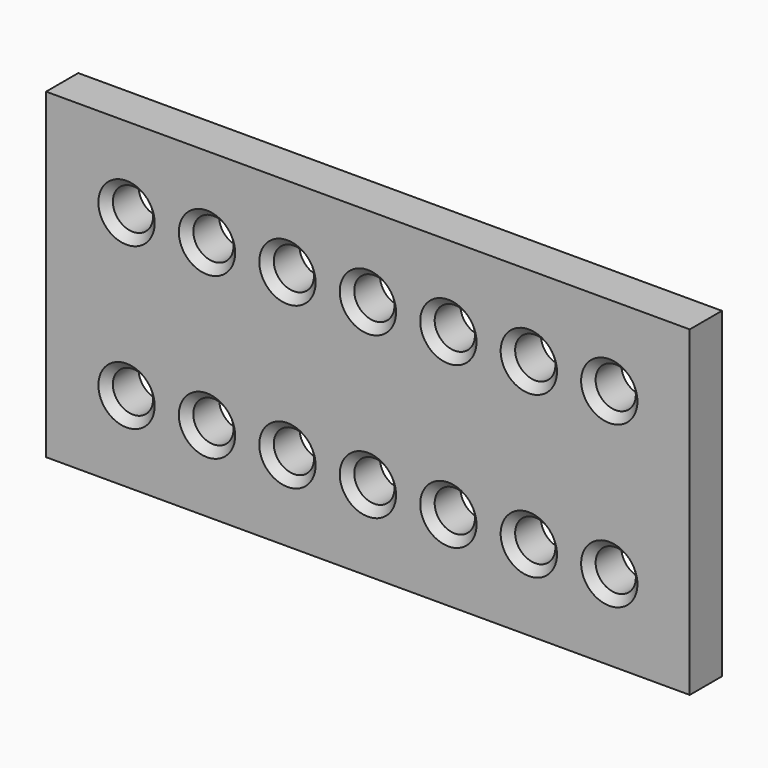
from build123d import *

# Parameters (mm, degrees)
F0_W     = 101.6
F0_H     = 50.8
F0_R     = 3.175
F1_DEPTH = 6.35
F2_SIZE  = 1.27


with BuildPart() as f1:
    # F0 (on Front) → F1 (new body)
    with BuildSketch(Plane.XZ):
        Rectangle(F0_W, F0_H)
        with Locations((-38.1, -12.7)):
            Circle(F0_R, mode=Mode.SUBTRACT)
        with Locations((-25.4, -12.7)):
            Circle(F0_R, mode=Mode.SUBTRACT)
        with Locations((-12.7, -12.7)):
            Circle(F0_R, mode=Mode.SUBTRACT)
        with Locations((0, -12.7)):
            Circle(F0_R, mode=Mode.SUBTRACT)
        with Locations((12.7, -12.7)):
            Circle(F0_R, mode=Mode.SUBTRACT)
        with Locations((25.4, -12.7)):
            Circle(F0_R, mode=Mode.SUBTRACT)
        with Locations((38.1, -12.7)):
            Circle(F0_R, mode=Mode.SUBTRACT)
        with Locations((-38.1, 12.7)):
            Circle(F0_R, mode=Mode.SUBTRACT)
        with Locations((-25.4, 12.7)):
            Circle(F0_R, mode=Mode.SUBTRACT)
        with Locations((-12.7, 12.7)):
            Circle(F0_R, mode=Mode.SUBTRACT)
        with Locations((0, 12.7)):
            Circle(F0_R, mode=Mode.SUBTRACT)
        with Locations((12.7, 12.7)):
            Circle(F0_R, mode=Mode.SUBTRACT)
        with Locations((25.4, 12.7)):
            Circle(F0_R, mode=Mode.SUBTRACT)
        with Locations((38.1, 12.7)):
            Circle(F0_R, mode=Mode.SUBTRACT)
    extrude(amount=F1_DEPTH)

    # F2
    f2_edges = [f1.edges().sort_by_distance(p)[0] for p in [
        (-41.275, -6.35, 12.7),
        (-28.575, -6.35, 12.7),
        (-15.875, -6.35, 12.7),
        (-3.175, -6.35, 12.7),
        (9.525, -6.35, 12.7),
        (22.225, -6.35, 12.7),
        (34.925, -6.35, 12.7),
        (34.925, -6.35, -12.7),
        (22.225, -6.35, -12.7),
        (9.525, -6.35, -12.7),
        (-3.175, -6.35, -12.7),
        (-15.875, -6.35, -12.7),
        (-41.275, -6.35, -12.7),
        (-28.575, -6.35, -12.7),
    ]]
    chamfer(f2_edges, length=F2_SIZE)


solid = f1.part
